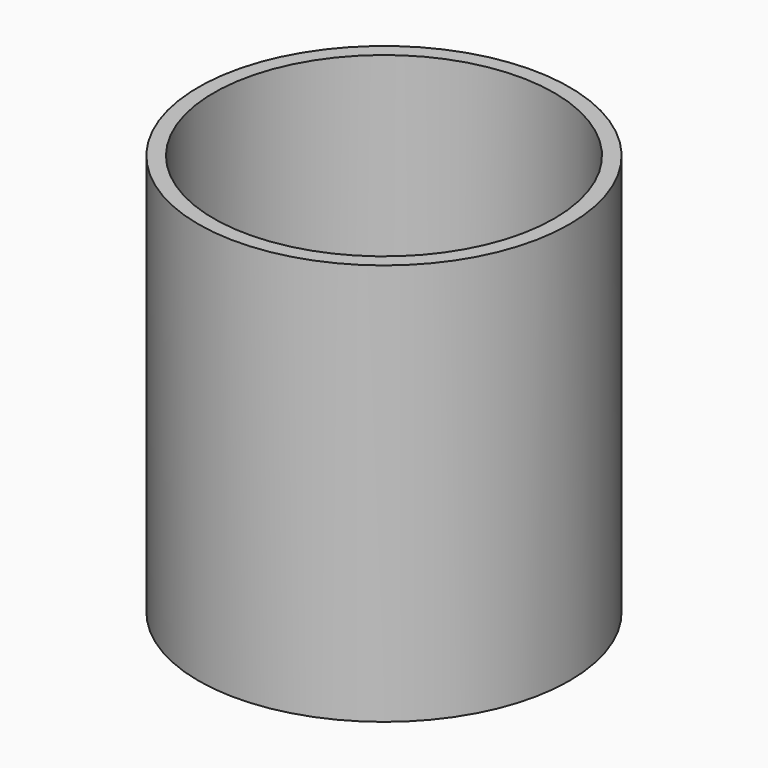
from build123d import *

# Parameters (mm, degrees)
F0_R     = 50.8
F0_R_2   = 46.609
F1_DEPTH = 110


with BuildPart() as f1:
    # F0 (on Top) → F1 (new body)
    with BuildSketch(Plane.XY):
        Circle(F0_R)
        Circle(F0_R_2, mode=Mode.SUBTRACT)
        Circle(F0_R)
        Circle(F0_R_2, mode=Mode.SUBTRACT)
    extrude(amount=F1_DEPTH)


solid = f1.part
